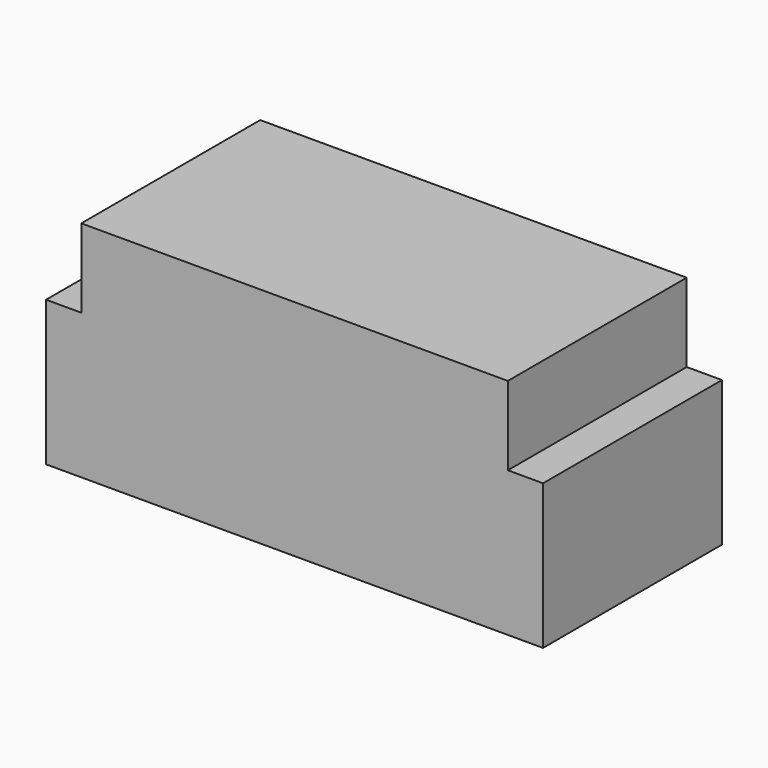
from build123d import *

# Parameters (mm, degrees)
F0_W     = 47.5
F0_H     = 2
F0_W_2   = 2
F0_W_3   = 2.25
F0_H_2   = 13.5
F0_W_4   = 56
F0_H_3   = 9.5
F1_DEPTH = 25
F2_W     = 6.25
F2_H     = 2
F3_DEPTH = 25
F4_W     = 51.5
F4_H     = 9.5
F5_DEPTH = 2


with BuildPart() as f1:
    # F0 (on Front) → F1 (new body)
    with BuildSketch(Plane.XZ):
        with Locations((23.75, 10.5)):
            Rectangle(F0_W, F0_H)
        with Locations((-1, 10.5)):
            Rectangle(F0_W_2, F0_H)
        Polygon((-2, 0), (0, 0), (0, 9.5), (-2, 9.5), (-2, 2), align=None)
        with Locations((-3.125, 1)):
            Rectangle(F0_W_3, F0_H)
        with Locations((-5.25, 1)):
            Rectangle(F0_W_2, F0_H)
        with Locations((-5.25, -6.75)):
            Rectangle(F0_W_2, F0_H_2)
        with Locations((-5.25, -14.5)):
            Rectangle(F0_W_2, F0_H)
        with Locations((23.75, -14.5)):
            Rectangle(F0_W_4, F0_H)
        with Locations((52.75, -14.5)):
            Rectangle(F0_W_2, F0_H)
        with Locations((52.75, -6.75)):
            Rectangle(F0_W_2, F0_H_2)
        with Locations((52.75, 1)):
            Rectangle(F0_W_2, F0_H)
        with Locations((48.5, 4.75)):
            Rectangle(F0_W_2, F0_H_3)
        with Locations((48.5, 10.5)):
            Rectangle(F0_W_2, F0_H)
    extrude(amount=F1_DEPTH)

    # F2 (on face) → F3 (join)
    with BuildSketch(Plane.XZ.offset(25)):
        with Locations((50.625, 1)):
            Rectangle(F2_W, F2_H)
    extrude(amount=-F3_DEPTH)

    # F4 (on face) → F5 (join)
    with BuildSketch(Plane.XZ.offset(25)):
        Polygon((-6.25, 2), (-6.25, -15.5), (53.75, -15.5), (53.75, 2), (49.5, 2), (-2, 2), align=None)
        with Locations((23.75, 6.75)):
            Rectangle(F4_W, F4_H)
    extrude(amount=F5_DEPTH)


solid = f1.part
